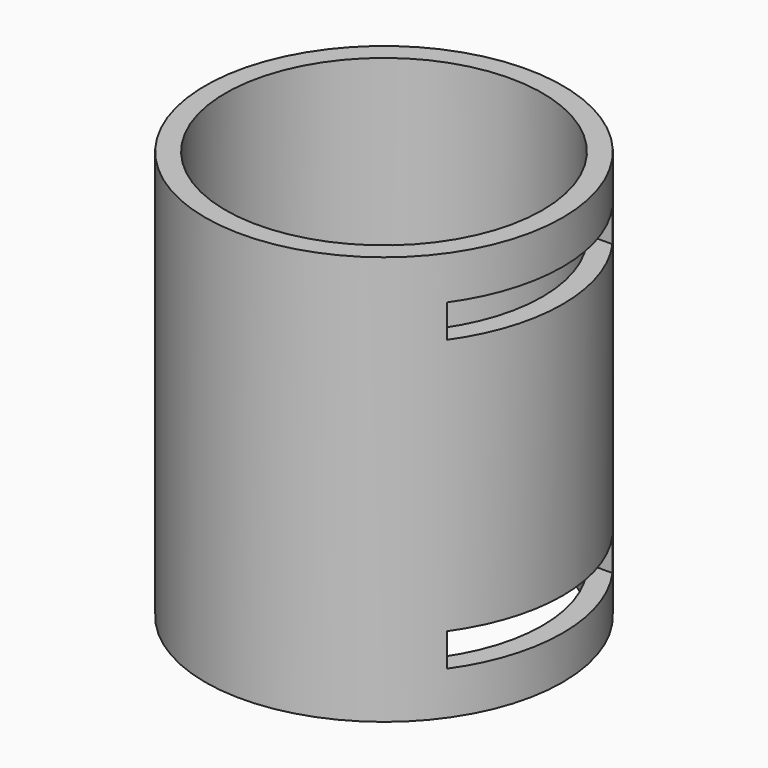
from build123d import *

# Parameters (mm, degrees)
F0_R     = 17.475776
F0_R_2   = 15.498302
F1_DEPTH = 20
F2_W     = 20.254392
F2_H     = 3.222291
F3_DEPTH = 25


with BuildPart() as f1:
    # F0 (on Top) → F1 (new body, symmetric)
    with BuildSketch(Plane.XY):
        Circle(F0_R)
        Circle(F0_R_2, mode=Mode.SUBTRACT)
    extrude(amount=F1_DEPTH, both=True)

    # F2 (on Right) → F3 (cut)
    with BuildSketch(Plane.YZ):
        with Locations((0, 14.155064)):
            Rectangle(F2_W, F2_H)
        with Locations((0, -14.155064)):
            Rectangle(F2_W, F2_H)
    extrude(amount=F3_DEPTH, mode=Mode.SUBTRACT)


solid = f1.part
